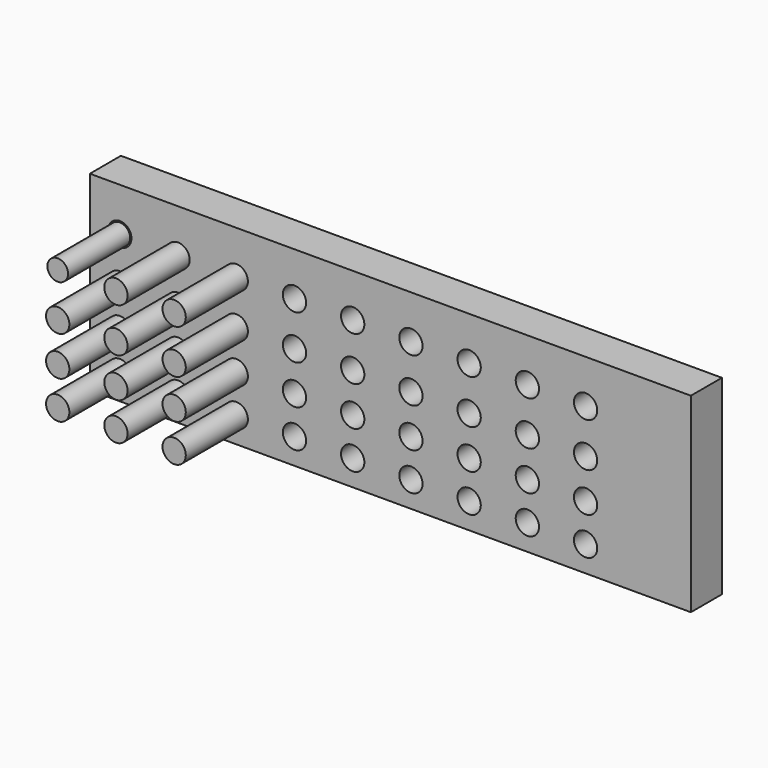
from build123d import *

# Parameters (mm, degrees)
F1_W     = 196.645074
F1_H     = 62.3735
F1_R     = 3.81
F2_DEPTH = 12.7
F3_R     = 3.38252
F4_DEPTH = 25.4
F5_R     = 3.81
F6_DEPTH = 25.4


with BuildPart() as f2:
    # F1 (on face) → F2 (new body)
    with BuildSketch(Plane.XZ):
        with Locations((-0.613559, 2.656339)):
            Rectangle(F1_W, F1_H)
        with Locations((-89.134452, -20.115053)):
            Circle(F1_R, mode=Mode.SUBTRACT)
        with Locations((-70.084452, -20.115053)):
            Circle(F1_R, mode=Mode.SUBTRACT)
        with Locations((-51.034452, -20.115053)):
            Circle(F1_R, mode=Mode.SUBTRACT)
        with Locations((-31.984452, -20.115053)):
            Circle(F1_R, mode=Mode.SUBTRACT)
        with Locations((-12.934452, -20.115053)):
            Circle(F1_R, mode=Mode.SUBTRACT)
        with Locations((-89.134452, -7.732541)):
            Circle(F1_R, mode=Mode.SUBTRACT)
        with Locations((-70.084452, -7.732541)):
            Circle(F1_R, mode=Mode.SUBTRACT)
        with Locations((-51.034452, -7.732541)):
            Circle(F1_R, mode=Mode.SUBTRACT)
        with Locations((-31.984452, -7.732541)):
            Circle(F1_R, mode=Mode.SUBTRACT)
        with Locations((-12.934452, -7.732541)):
            Circle(F1_R, mode=Mode.SUBTRACT)
        with Locations((6.115548, -20.115053)):
            Circle(F1_R, mode=Mode.SUBTRACT)
        with Locations((25.165548, -20.115053)):
            Circle(F1_R, mode=Mode.SUBTRACT)
        with Locations((44.215548, -20.115053)):
            Circle(F1_R, mode=Mode.SUBTRACT)
        with Locations((63.265548, -20.115053)):
            Circle(F1_R, mode=Mode.SUBTRACT)
        with Locations((6.115548, -7.732541)):
            Circle(F1_R, mode=Mode.SUBTRACT)
        with Locations((25.165548, -7.732541)):
            Circle(F1_R, mode=Mode.SUBTRACT)
        with Locations((44.215548, -7.732541)):
            Circle(F1_R, mode=Mode.SUBTRACT)
        with Locations((63.265548, -7.732541)):
            Circle(F1_R, mode=Mode.SUBTRACT)
        with Locations((-89.134452, 5.165908)):
            Circle(F1_R, mode=Mode.SUBTRACT)
        with Locations((-70.084452, 5.165908)):
            Circle(F1_R, mode=Mode.SUBTRACT)
        with Locations((-51.034452, 5.165908)):
            Circle(F1_R, mode=Mode.SUBTRACT)
        with Locations((-31.984452, 5.165908)):
            Circle(F1_R, mode=Mode.SUBTRACT)
        with Locations((-12.934452, 5.165908)):
            Circle(F1_R, mode=Mode.SUBTRACT)
        with Locations((-89.134452, 19.612173)):
            Circle(F1_R, mode=Mode.SUBTRACT)
        with Locations((-70.084452, 19.612173)):
            Circle(F1_R, mode=Mode.SUBTRACT)
        with Locations((-51.034452, 19.612173)):
            Circle(F1_R, mode=Mode.SUBTRACT)
        with Locations((-31.984452, 19.612173)):
            Circle(F1_R, mode=Mode.SUBTRACT)
        with Locations((-12.934452, 19.612173)):
            Circle(F1_R, mode=Mode.SUBTRACT)
        with Locations((6.115548, 5.165908)):
            Circle(F1_R, mode=Mode.SUBTRACT)
        with Locations((25.165548, 5.165908)):
            Circle(F1_R, mode=Mode.SUBTRACT)
        with Locations((44.215548, 5.165908)):
            Circle(F1_R, mode=Mode.SUBTRACT)
        with Locations((63.265548, 5.165908)):
            Circle(F1_R, mode=Mode.SUBTRACT)
        with Locations((6.115548, 19.612173)):
            Circle(F1_R, mode=Mode.SUBTRACT)
        with Locations((25.165548, 19.612173)):
            Circle(F1_R, mode=Mode.SUBTRACT)
        with Locations((44.215548, 19.612173)):
            Circle(F1_R, mode=Mode.SUBTRACT)
        with Locations((63.265548, 19.612173)):
            Circle(F1_R, mode=Mode.SUBTRACT)
    extrude(amount=-F2_DEPTH)


with BuildPart() as f4:
    # F3 (on face) → F4 (new body)
    with BuildSketch(Plane.XZ):
        with Locations((-89.134452, 19.612173)):
            Circle(F3_R)
    extrude(amount=F4_DEPTH)


with BuildPart() as f6:
    # F5 (on face) → F6 (new body)
    with BuildSketch(Plane.XZ):
        with Locations((-89.134452, 5.165908)):
            Circle(F5_R)
        with Locations((-89.134452, -7.732541)):
            Circle(F5_R)
        with Locations((-89.134452, -20.115053)):
            Circle(F5_R)
        with Locations((-70.084452, 19.612173)):
            Circle(F5_R)
        with Locations((-70.084452, 5.165908)):
            Circle(F5_R)
        with Locations((-70.084452, -7.732541)):
            Circle(F5_R)
        with Locations((-70.084452, -20.115053)):
            Circle(F5_R)
        with Locations((-51.034452, 19.612173)):
            Circle(F5_R)
        with Locations((-51.034452, 5.165908)):
            Circle(F5_R)
        with Locations((-51.034452, -7.732541)):
            Circle(F5_R)
        with Locations((-51.034452, -20.115053)):
            Circle(F5_R)
    extrude(amount=F6_DEPTH)


solid = Compound([f2.part, f4.part, f6.part])
